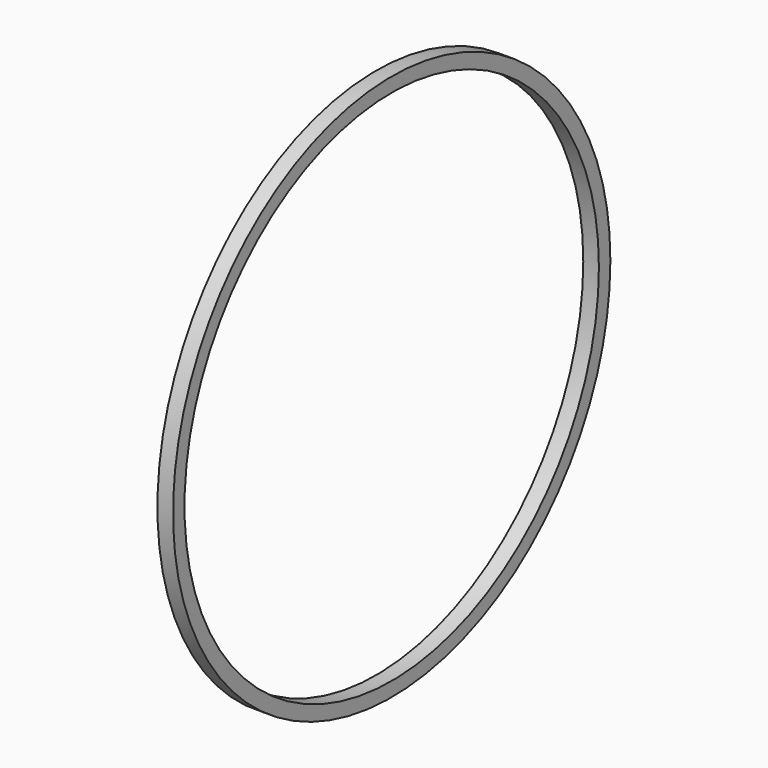
from build123d import *

# Parameters (mm, degrees)
F0_R     = 66.628507
F1_DEPTH = 3.81
F2_R     = 63.136044
F3_DEPTH = 3.811


with BuildPart() as f1:
    # F0 (on Right) → F1 (new body)
    with BuildSketch(Plane.YZ):
        Circle(F0_R)
    extrude(amount=F1_DEPTH)

    # F2 (on face) → F3 (cut, through all)
    with BuildSketch(Plane.YZ.offset(3.81)):
        Circle(F2_R)
    extrude(amount=-F3_DEPTH, mode=Mode.SUBTRACT)


solid = f1.part
